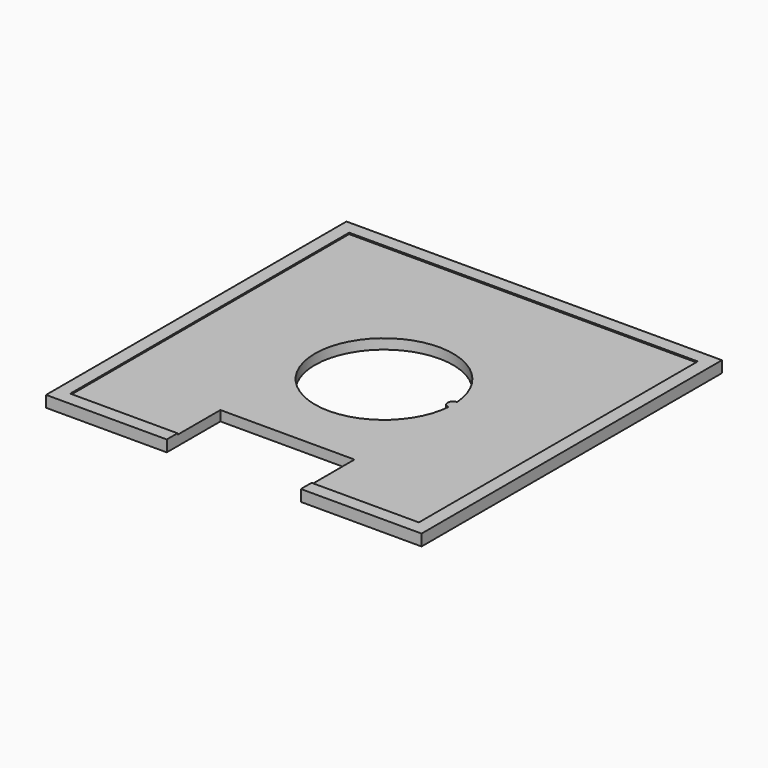
from build123d import *

# Parameters (mm, degrees)
F0_W     = 66.04
F0_H     = 66.04
F1_DEPTH = 1.905
F0_W_2   = 71.12
F0_H_2   = 71.12
F2_DEPTH = 2.159
F3_W     = 25.4
F3_H     = 25.4
F4_DEPTH = 25.4


with BuildPart() as f1:
    # F0 (on Top) → F1 (new body)
    with BuildSketch(Plane.XY):
        Rectangle(F0_W, F0_H)
        with BuildLine():
            ThreePointArc((13.041544, -1.015234), (-13.081, 0), (13.041544, 1.015234))
            ThreePointArc((13.041544, 1.015234), (12.065, 0), (13.041544, -1.015234))
        make_face(mode=Mode.SUBTRACT)
    extrude(amount=F1_DEPTH)

    # F0 (on Top) → F2 (join)
    with BuildSketch(Plane.XY):
        Rectangle(F0_W_2, F0_H_2)
        Rectangle(F0_W, F0_H, mode=Mode.SUBTRACT)
    extrude(amount=F2_DEPTH)

    # F3 (on face) → F4 (cut)
    with BuildSketch(Plane(origin=(0, 0, 0), x_dir=(1, 0, 0), z_dir=(0, 0, -1))):
        with Locations((0, 35.56)):
            Rectangle(F3_W, F3_H)
    extrude(amount=-F4_DEPTH, mode=Mode.SUBTRACT)


solid = f1.part
